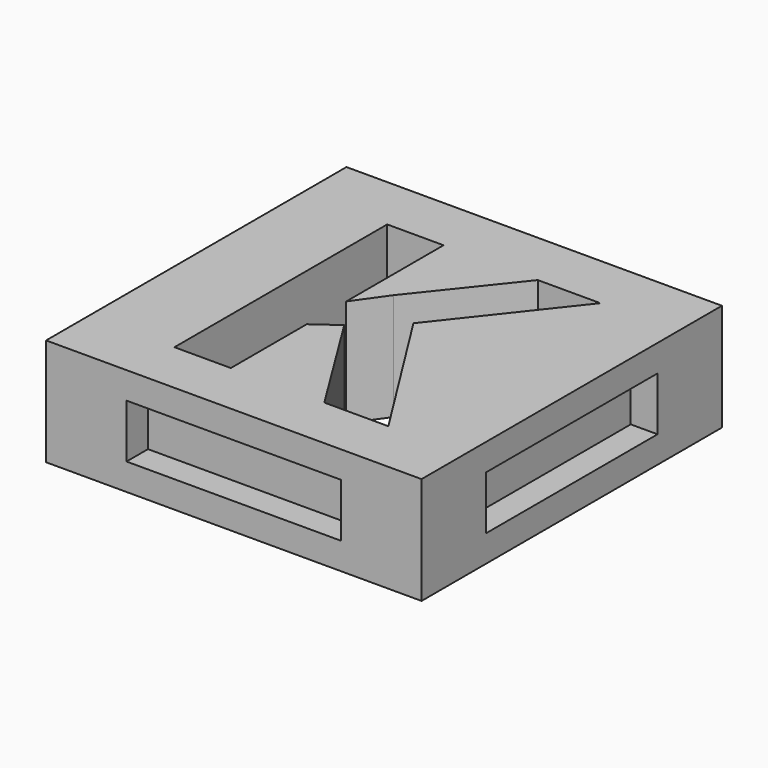
from build123d import *

# Parameters (mm, degrees)
F0_W     = 35.56
F0_H     = 35.56
F1_DEPTH = 5.08
F2_W     = 19.812
F2_H     = 4.572
F3_DEPTH = 2.54
F4_W     = 19.812
F4_H     = 4.572
F5_DEPTH = 2.54
F6_W     = 20.32
F6_H     = 5.08
F7_DEPTH = 2.54
F8_W     = 20.32
F8_H     = 5.08
F9_DEPTH = 2.54


with BuildPart() as f1:
    # F0 (on Top) → F1 (new body, symmetric)
    with BuildSketch(Plane.XY):
        Rectangle(F0_W, F0_H)
        Polygon((1.7170355903, 1.339453125), (10.5695529514, -12.7), (4.5061848958, -12.7), (-2.0918619792, -2.0891059028), (-4.3463324653, -3.7096788194), (-4.3463324653, -12.7), (-9.6876085069, -12.7), (-9.6876085069, 12.4850260417), (-4.3463324653, 12.4850260417), (-4.3463324653, 0.9591145833), (-2.2462022569, 3.9246527778), (4.5778428819, 12.4850260417), (10.5034071181, 12.4850260417), align=None, mode=Mode.SUBTRACT)
    extrude(amount=F1_DEPTH, both=True)

    # F2 (on face) → F3 (join)
    with BuildSketch(Plane(origin=(0, 17.78, 0), x_dir=(-1, 0, 0), z_dir=(0, 1, 0))):
        Rectangle(F2_W, F2_H)
    extrude(amount=F3_DEPTH)

    # F4 (on face) → F5 (join)
    with BuildSketch(Plane(origin=(-17.78, 0, 0), x_dir=(0, -1, 0), z_dir=(-1, 0, 0))):
        Rectangle(F4_W, F4_H)
    extrude(amount=F5_DEPTH)

    # F6 (on face) → F7 (cut)
    with BuildSketch(Plane.XZ.offset(17.78)):
        Rectangle(F6_W, F6_H)
    extrude(amount=-F7_DEPTH, mode=Mode.SUBTRACT)

    # F8 (on face) → F9 (cut)
    with BuildSketch(Plane.YZ.offset(17.78)):
        Rectangle(F8_W, F8_H)
    extrude(amount=-F9_DEPTH, mode=Mode.SUBTRACT)


solid = f1.part
